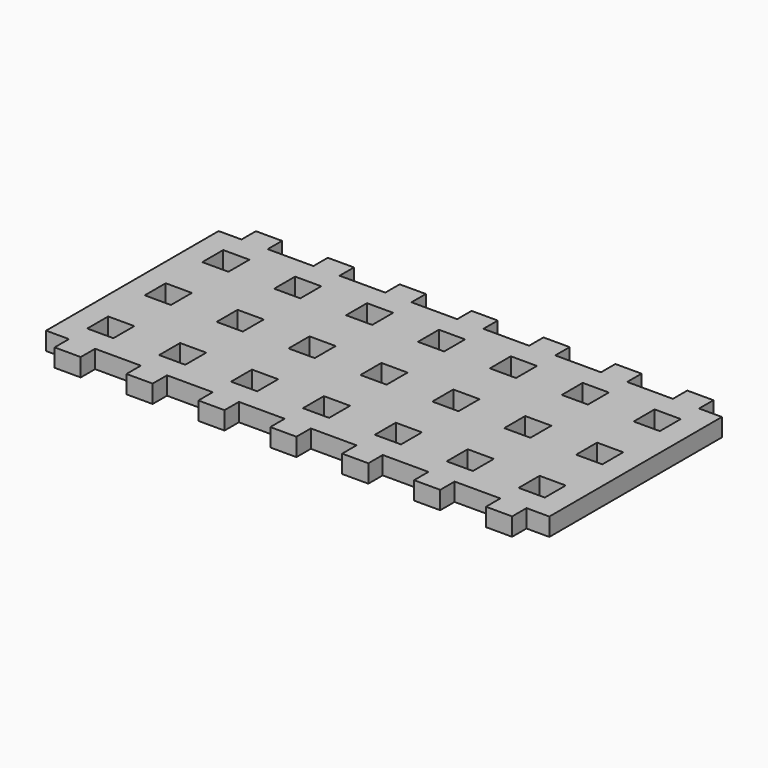
from build123d import *

# Parameters (mm, degrees)
F0_W     = 4.6228
F0_H     = 4.6228
F0_H_2   = 3.175
F1_DEPTH = 3.175


with BuildPart() as f1:
    # F0 (on Top) → F1 (new body)
    with BuildSketch(Plane.XY):
        Polygon((44.45, -19.05), (44.45, 19.05), (40.4114, 19.05), (35.7886, 19.05), (27.7114, 19.05), (23.0886, 19.05), (15.0114, 19.05), (10.3886, 19.05), (2.3114, 19.05), (-2.3114, 19.05), (-10.3886, 19.05), (-15.0114, 19.05), (-23.0886, 19.05), (-27.7114, 19.05), (-35.7886, 19.05), (-38.1, 19.05), (-40.4114, 19.05), (-44.45, 19.05), (-44.45, -12.7), (-44.45, -19.05), (-40.4114, -19.05), (-38.1, -19.05), (-35.7886, -19.05), (-27.7114, -19.05), (-23.0886, -19.05), (-15.0114, -19.05), (-10.3886, -19.05), (-2.3114, -19.05), (2.3114, -19.05), (10.3886, -19.05), (15.0114, -19.05), (23.0886, -19.05), (27.7114, -19.05), (35.7886, -19.05), (40.4114, -19.05), align=None)
        with Locations((-38.1, -12.7)):
            Rectangle(F0_W, F0_H, mode=Mode.SUBTRACT)
        with Locations((-25.4, -12.7)):
            Rectangle(F0_W, F0_H, mode=Mode.SUBTRACT)
        with Locations((-12.7, -12.7)):
            Rectangle(F0_W, F0_H, mode=Mode.SUBTRACT)
        with Locations((0, -12.7)):
            Rectangle(F0_W, F0_H, mode=Mode.SUBTRACT)
        with Locations((12.7, -12.7)):
            Rectangle(F0_W, F0_H, mode=Mode.SUBTRACT)
        with Locations((25.4, -12.7)):
            Rectangle(F0_W, F0_H, mode=Mode.SUBTRACT)
        with Locations((38.1, -12.7)):
            Rectangle(F0_W, F0_H, mode=Mode.SUBTRACT)
        with Locations((-38.1, 0)):
            Rectangle(F0_W, F0_H, mode=Mode.SUBTRACT)
        with Locations((-25.4, 0)):
            Rectangle(F0_W, F0_H, mode=Mode.SUBTRACT)
        with Locations((-12.7, 0)):
            Rectangle(F0_W, F0_H, mode=Mode.SUBTRACT)
        with Locations((-38.1, 12.7)):
            Rectangle(F0_W, F0_H, mode=Mode.SUBTRACT)
        with Locations((-25.4, 12.7)):
            Rectangle(F0_W, F0_H, mode=Mode.SUBTRACT)
        with Locations((-12.7, 12.7)):
            Rectangle(F0_W, F0_H, mode=Mode.SUBTRACT)
        Rectangle(F0_W, F0_H, mode=Mode.SUBTRACT)
        with Locations((12.7, 0)):
            Rectangle(F0_W, F0_H, mode=Mode.SUBTRACT)
        with Locations((25.4, 0)):
            Rectangle(F0_W, F0_H, mode=Mode.SUBTRACT)
        with Locations((38.1, 0)):
            Rectangle(F0_W, F0_H, mode=Mode.SUBTRACT)
        with Locations((0, 12.7)):
            Rectangle(F0_W, F0_H, mode=Mode.SUBTRACT)
        with Locations((12.7, 12.7)):
            Rectangle(F0_W, F0_H, mode=Mode.SUBTRACT)
        with Locations((25.4, 12.7)):
            Rectangle(F0_W, F0_H, mode=Mode.SUBTRACT)
        with Locations((38.1, 12.7)):
            Rectangle(F0_W, F0_H, mode=Mode.SUBTRACT)
        with Locations((38.1, 20.6375)):
            Rectangle(F0_W, F0_H_2)
        with Locations((38.1, -20.6375)):
            Rectangle(F0_W, F0_H_2)
        with Locations((25.4, 20.6375)):
            Rectangle(F0_W, F0_H_2)
        with Locations((25.4, -20.6375)):
            Rectangle(F0_W, F0_H_2)
        with Locations((12.7, 20.6375)):
            Rectangle(F0_W, F0_H_2)
        with Locations((12.7, -20.6375)):
            Rectangle(F0_W, F0_H_2)
        with Locations((0, 20.6375)):
            Rectangle(F0_W, F0_H_2)
        with Locations((0, -20.6375)):
            Rectangle(F0_W, F0_H_2)
        with Locations((-12.7, 20.6375)):
            Rectangle(F0_W, F0_H_2)
        with Locations((-12.7, -20.6375)):
            Rectangle(F0_W, F0_H_2)
        with Locations((-25.4, 20.6375)):
            Rectangle(F0_W, F0_H_2)
        with Locations((-25.4, -20.6375)):
            Rectangle(F0_W, F0_H_2)
        Polygon((-38.1, 19.05), (-35.7886, 19.05), (-35.7886, 22.225), (-40.4114, 22.225), (-40.4114, 19.05), align=None)
        Polygon((-35.7886, -22.225), (-35.7886, -19.05), (-38.1, -19.05), (-40.4114, -19.05), (-40.4114, -22.225), align=None)
    extrude(amount=F1_DEPTH)


solid = f1.part
